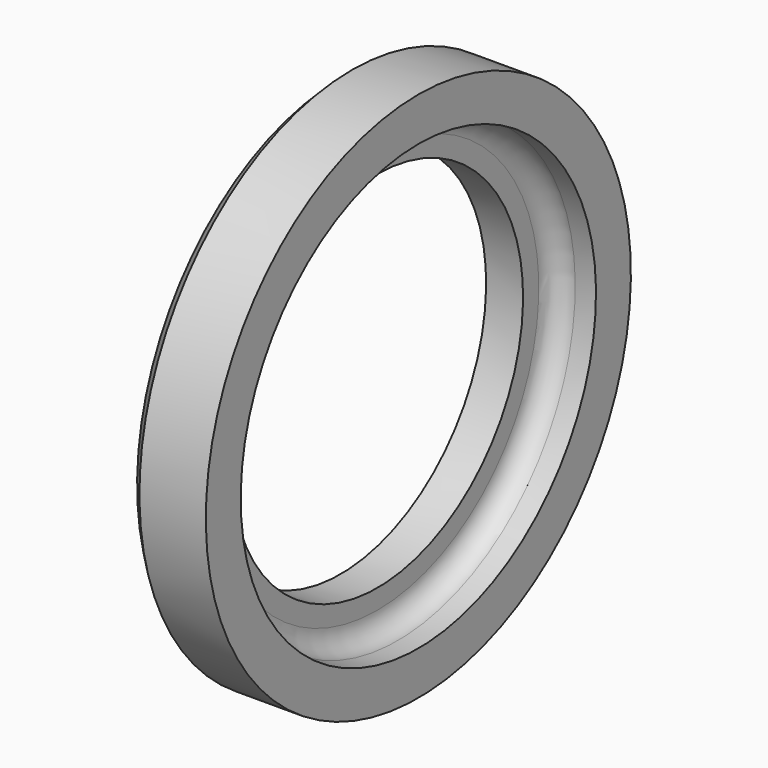
from build123d import *

# Parameters (mm, degrees)
F3_SIZE = 2
F4_R    = 3.5


with BuildPart() as f2:
    # F1 (on Front) → F2 (revolve)
    with BuildSketch(Plane.XZ):
        Polygon((0, 46), (0, 31.54), (6.4, 31.54), (6.4, 34.95), (6.4, 38.45), (9.9, 38.45), (13.5, 38.45), (13.5, 46), align=None)
    revolve(axis=Axis((6.796166, 0, 0), (1, 0, 0)))

    # F3
    f3_edges = [f2.edges().sort_by_distance(p)[0] for p in [
        (0, 0, -46),
    ]]
    chamfer(f3_edges, length=F3_SIZE)

    # F4
    f4_edges = [f2.edges().sort_by_distance(p)[0] for p in [
        (6.4, 0, -38.45),
    ]]
    fillet(f4_edges, radius=F4_R)


solid = f2.part
